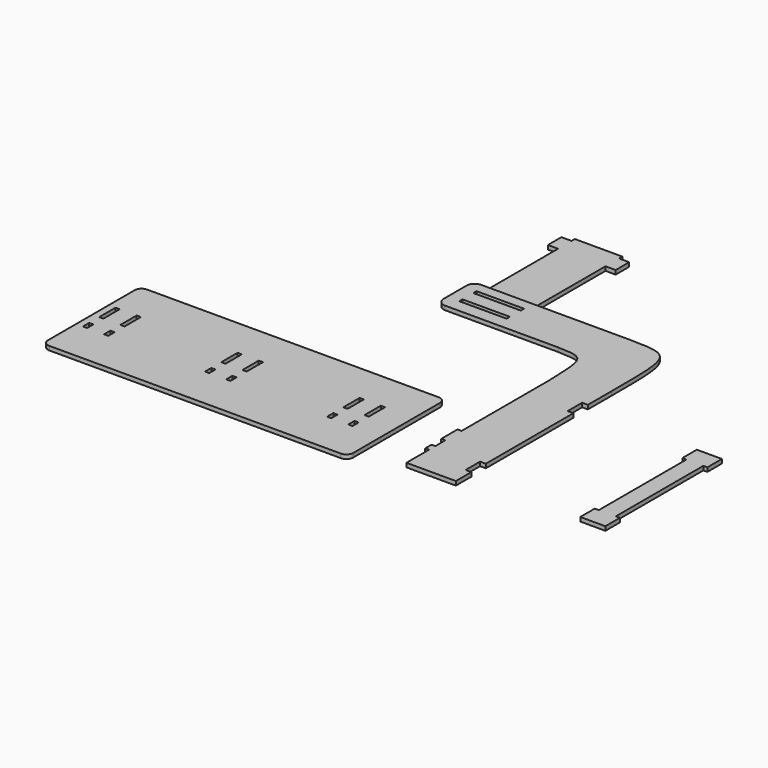
from build123d import *

# Parameters (mm, degrees)
F1_DEPTH  = 6
F2_W      = 6.2
F2_H      = 30
F2_H_2    = 11.5249490142
F3_DEPTH  = 25
F5_DEPTH  = 6
F6_W      = 70
F6_H      = 6
F7_DEPTH  = 25
F8_W      = 8.4585547447
F8_H      = 26.7494320869
F9_DEPTH  = 25
F11_DEPTH = 6
F12_W     = 70
F12_H     = 6
F12_H_2   = 10
F12_H_3   = 110
F13_DEPTH = 6


with BuildPart() as f1:
    # F0 (on Top) → F1 (new body)
    with BuildSketch(Plane.XY):
        with BuildLine():
            ThreePointArc((0, 10), (2.9289321881, 2.9289321881), (10, 0))
            Line((10, 0), (440, 0))
            ThreePointArc((440, 0), (447.0710678119, 2.9289321881), (450, 10))
            Line((450, 10), (450, 170))
            ThreePointArc((450, 170), (447.0710678119, 177.0710678119), (440, 180))
            Line((440, 180), (10, 180))
            ThreePointArc((10, 180), (2.9289321881, 177.0710678119), (0, 170))
            Line((0, 170), (0, 10))
        make_face()
    extrude(amount=F1_DEPTH)

    # F2 (on face) → F3 (cut)
    with BuildSketch(Plane.XY.offset(6)):
        with Locations((13.1, 106.946528554)):
            Rectangle(F2_W, F2_H)
        with Locations((13.1, 67.7090030611)):
            Rectangle(F2_W, F2_H_2)
        with Locations((44.3, 67.7090030611)):
            Rectangle(F2_W, F2_H_2)
        with Locations((44.3, 106.946528554)):
            Rectangle(F2_W, F2_H)
        with Locations((224.3, 106.946528554)):
            Rectangle(F2_W, F2_H)
        with Locations((193.1, 106.946528554)):
            Rectangle(F2_W, F2_H)
        with Locations((193.1, 67.7090030611)):
            Rectangle(F2_W, F2_H_2)
        with Locations((224.3, 67.7090030611)):
            Rectangle(F2_W, F2_H_2)
        with Locations((404.3, 106.946528554)):
            Rectangle(F2_W, F2_H)
        with Locations((373.1, 106.946528554)):
            Rectangle(F2_W, F2_H)
        with Locations((373.1, 67.7090030611)):
            Rectangle(F2_W, F2_H_2)
        with Locations((404.3, 67.7090030611)):
            Rectangle(F2_W, F2_H_2)
    extrude(amount=-F3_DEPTH, mode=Mode.SUBTRACT)


with BuildPart() as f5:
    # F4 (on face) → F5 (new body)
    with BuildSketch(Plane.XY.offset(6)):
        with BuildLine():
            Line((520.3174543032, 121.946528554), (514.3174543032, 121.946528554))
            Line((514.3174543032, 121.946528554), (514.3174543032, 91.946528554))
            Line((514.3174543032, 91.946528554), (520.3174543032, 91.946528554))
            Line((520.3174543032, 91.946528554), (520.3174543032, 73.4714775681))
            Line((520.3174543032, 73.4714775681), (514.6890902519, 73.4714775681))
            Line((514.6890902519, 73.4714775681), (514.6890902519, 61.946528554))
            Line((514.6890902519, 61.946528554), (520.3174543032, 61.946528554))
            Line((520.3174543032, 61.946528554), (520.3174543032, 20.2404288223))
            Line((520.3174543032, 20.2404288223), (593.2067036629, 20.2404288223))
            Line((593.2067036629, 20.2404288223), (593.2067036629, 307.470202446))
            add(Edge.make_bspline(
                [(530.1111537642, 420.4473876974), (593.2067036629, 419.3136692047), (593.2067036629, 419.3136692047), (593.2067036629, 307.470202446)],
                knots=[0, 0, 0, 0, 129.402058733, 129.402058733, 129.402058733, 129.402058733], degree=3))
            Line((530.1111537642, 420.4473876974), (310.4032595633, 420.4473876974))
            ThreePointArc((310.4032595633, 420.4473876974), (301.917978189, 416.9326690716), (298.4032595633, 408.4473876974))
            Line((298.4032595633, 408.4473876974), (298.4032595633, 366.0253424665))
            ThreePointArc((298.4032595633, 366.0253424665), (301.917978189, 357.5400610923), (310.4032595633, 354.0253424665))
            Line((310.4032595633, 354.0253424665), (476.9004619294, 354.0253424665))
            add(Edge.make_bspline(
                [(476.9004619294, 354.0253424665), (517.9591178894, 352.6249909422), (517.9591178894, 352.6249909422), (520.3174543032, 282.0998557823)],
                knots=[0, 0, 0, 0, 84.0137540023, 84.0137540023, 84.0137540023, 84.0137540023], degree=3))
            Line((520.3174543032, 282.0998557823), (520.3174543032, 121.946528554))
        make_face()
    extrude(amount=F5_DEPTH)

    # F6 (on face) → F7 (cut)
    with BuildSketch(Plane.XY.offset(12)):
        with Locations((351.0576683283, 401.8176653385)):
            Rectangle(F6_W, F6_H)
        with Locations((351.0576683283, 375.8176653385)):
            Rectangle(F6_W, F6_H)
    extrude(amount=-F7_DEPTH, mode=Mode.SUBTRACT)

    # F8 (on face) → F9 (cut)
    with BuildSketch(Plane(origin=(0, 0, 6), x_dir=(1, 0, 0), z_dir=(0, 0, -1))):
        with Locations((588.9774262905, -250.2325177193)):
            Rectangle(F8_W, F8_H)
        with Locations((588.9774262905, -62.1410124004)):
            Rectangle(F8_W, F8_H)
    extrude(amount=-F9_DEPTH, mode=Mode.SUBTRACT)


with BuildPart() as f11:
    # F10 (on face) → F11 (new body)
    with BuildSketch(Plane(origin=(0, 0, 6), x_dir=(1, 0, 0), z_dir=(0, 0, -1))):
        Polygon((753.8273334503, -263.6072337627), (759.8273334503, -263.6072337627), (784.8273334503, -263.6072337627), (790.8273334503, -263.6072337627), (790.8273334503, -236.8578016758), (784.8273334503, -236.8578016758), (784.8273334503, -75.5157284439), (790.8273334503, -75.5157284439), (790.8273334503, -48.7662963569), (784.8273334503, -48.7662963569), (759.8273334503, -48.7662963569), (753.8273334503, -48.7662963569), (753.8273334503, -75.5157284439), (759.8273334503, -75.5157284439), (759.8273334503, -236.8578016758), (753.8273334503, -236.8578016758), align=None)
    extrude(amount=F11_DEPTH)


with BuildPart() as f13:
    # F12 (on face) → F13 (new body)
    with BuildSketch(Plane(origin=(0, 0, 6), x_dir=(1, 0, 0), z_dir=(0, 0, -1))):
        with Locations((351.0576683283, -551.9914240837)):
            Rectangle(F12_W, F12_H)
        with Locations((351.0576683283, -543.9914240837)):
            Rectangle(F12_W, F12_H_2)
        Polygon((401.0576683283, -554.9914240837), (386.0576683283, -554.9914240837), (316.0576683283, -554.9914240837), (301.0576683283, -554.9914240837), (301.0576683283, -579.9914240837), (316.0576683283, -579.9914240837), (386.0576683283, -579.9914240837), (401.0576683283, -579.9914240837), align=None)
        with Locations((351.0576683283, -483.9914240837)):
            Rectangle(F12_W, F12_H_3)
        with Locations((351.0576683283, -582.9914240837)):
            Rectangle(F12_W, F12_H)
    extrude(amount=F13_DEPTH)


solid = Compound([f1.part, f5.part, f11.part, f13.part])
